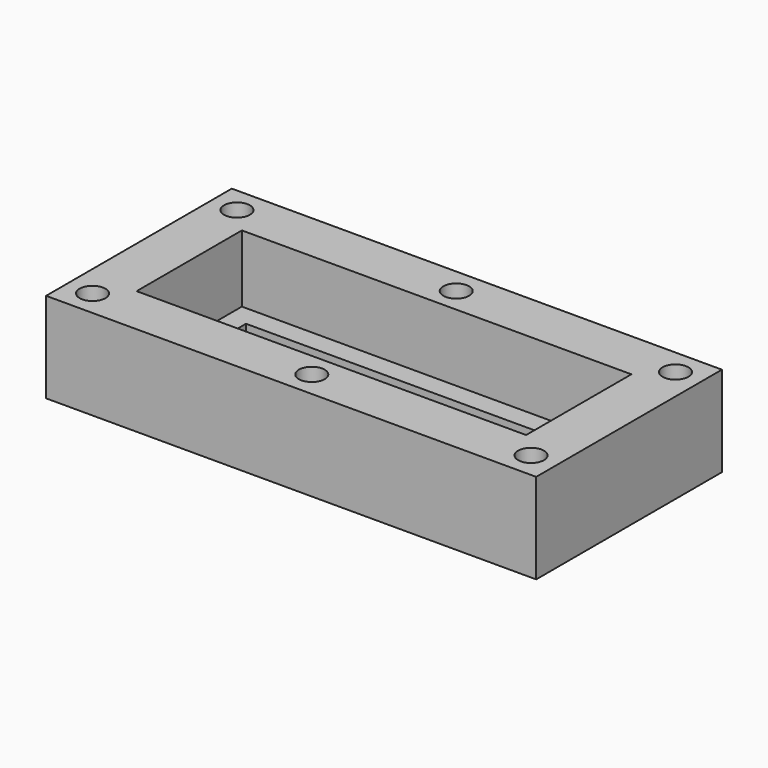
from build123d import *

# Parameters (mm, degrees)
F0_W     = 241.3
F0_H     = 114.3
F1_DEPTH = 44.45
F2_W     = 191.77
F2_H     = 64.77
F3_DEPTH = 33.02
F4_W     = 171.45
F4_H     = 44.45
F5_DEPTH = 25.4
F6_R     = 6.35
F7_DEPTH = 25.4


with BuildPart() as f1:
    # F0 (on Top) → F1 (new body)
    with BuildSketch(Plane.XY):
        Rectangle(F0_W, F0_H)
    extrude(amount=F1_DEPTH)

    # F2 (on face) → F3 (cut)
    with BuildSketch(Plane.XY.offset(44.45)):
        Rectangle(F2_W, F2_H)
    extrude(amount=-F3_DEPTH, mode=Mode.SUBTRACT)

    # F4 (on face) → F5 (cut)
    with BuildSketch(Plane(origin=(0, 0, 0), x_dir=(1, 0, 0), z_dir=(0, 0, -1))):
        Rectangle(F4_W, F4_H)
    extrude(amount=-F5_DEPTH, mode=Mode.SUBTRACT)

    # F6 (on face) → F7 (cut)
    with BuildSketch(Plane.XY.offset(44.45)):
        with Locations((-107.95, 44.45)):
            Circle(F6_R)
        with Locations((0, 44.45)):
            Circle(F6_R)
        with Locations((107.95, 44.45)):
            Circle(F6_R)
        with Locations((107.95, -44.45)):
            Circle(F6_R)
        with Locations((0, -44.45)):
            Circle(F6_R)
        with Locations((-107.95, -44.45)):
            Circle(F6_R)
    extrude(amount=-F7_DEPTH, mode=Mode.SUBTRACT)


solid = f1.part
